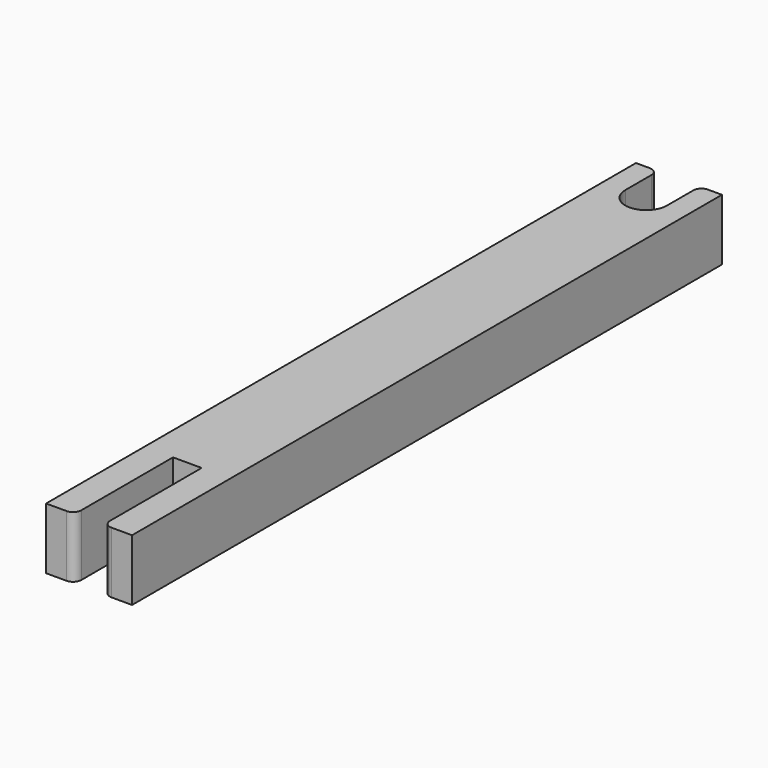
from build123d import *

# Parameters (mm, degrees)
F1_DEPTH = 7.5
F2_R     = 2


with BuildPart() as f1:
    # F0 (on Top) → F1 (new body, symmetric)
    with BuildSketch(Plane.XY):
        with BuildLine():
            Line((3.5, -90.05), (10.5, -90.05))
            Line((10.5, -90.05), (10.5, 90.05))
            Line((10.5, 90.05), (5.1, 90.05))
            Line((5.1, 90.05), (5.1, 80.05))
            ThreePointArc((5.1, 80.05), (0, 74.95), (-5.1, 80.05))
            Line((-5.1, 80.05), (-5.1, 90.05))
            Line((-5.1, 90.05), (-10.5, 90.05))
            Line((-10.5, 90.05), (-10.5, -90.05))
            Line((-10.5, -90.05), (-3.5, -90.05))
            Line((-3.5, -90.05), (-3.5, -60.05))
            Line((-3.5, -60.05), (3.5, -60.05))
            Line((3.5, -60.05), (3.5, -90.05))
        make_face()
    extrude(amount=F1_DEPTH, both=True)

    # F2
    f2_edges = [f1.edges().sort_by_distance(p)[0] for p in [
        (5.1, 90.05, 0),
        (-5.1, 90.05, 0),
        (-3.5, -90.05, 0),
        (3.5, -90.05, 0),
    ]]
    fillet(f2_edges, radius=F2_R)


solid = f1.part
